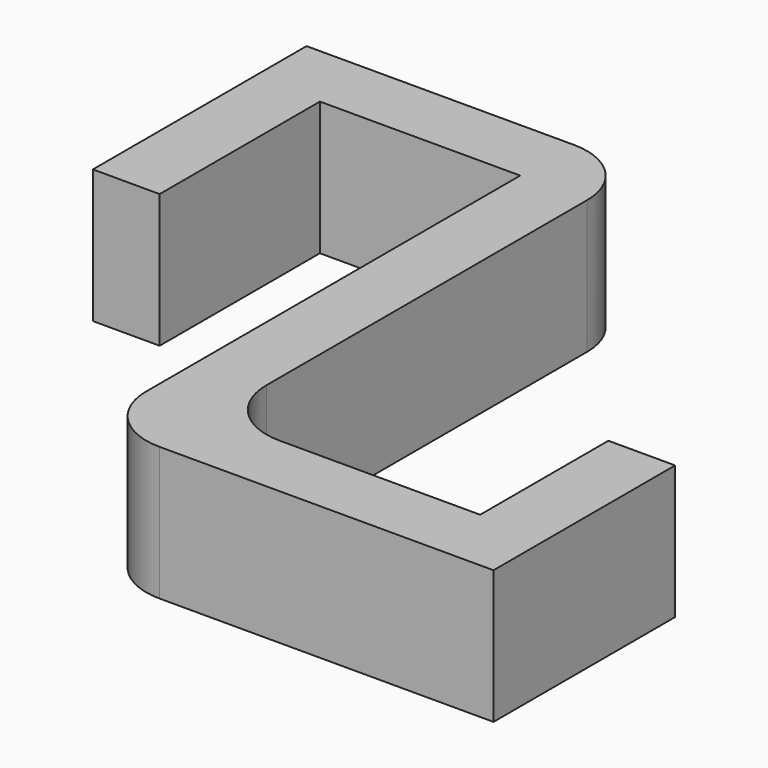
from build123d import *

# Parameters (mm, degrees)
F1_DEPTH = 10
F2_R     = 5


with BuildPart() as f1:
    # F0 (on Top) → F1 (new body)
    with BuildSketch(Plane.XY):
        Polygon((-5, 0), (0, 0), (0, 15), (15, 15), (15, -25), (45, -25), (45, -8), (40, -8), (40, -20), (20, -20), (20, 20), (-5, 20), align=None)
    extrude(amount=F1_DEPTH)

    # F2
    f2_edges = [f1.edges().sort_by_distance(p)[0] for p in [
        (20, -20, 5),
        (20, 20, 5),
        (15, -25, 5),
    ]]
    fillet(f2_edges, radius=F2_R)


solid = f1.part
